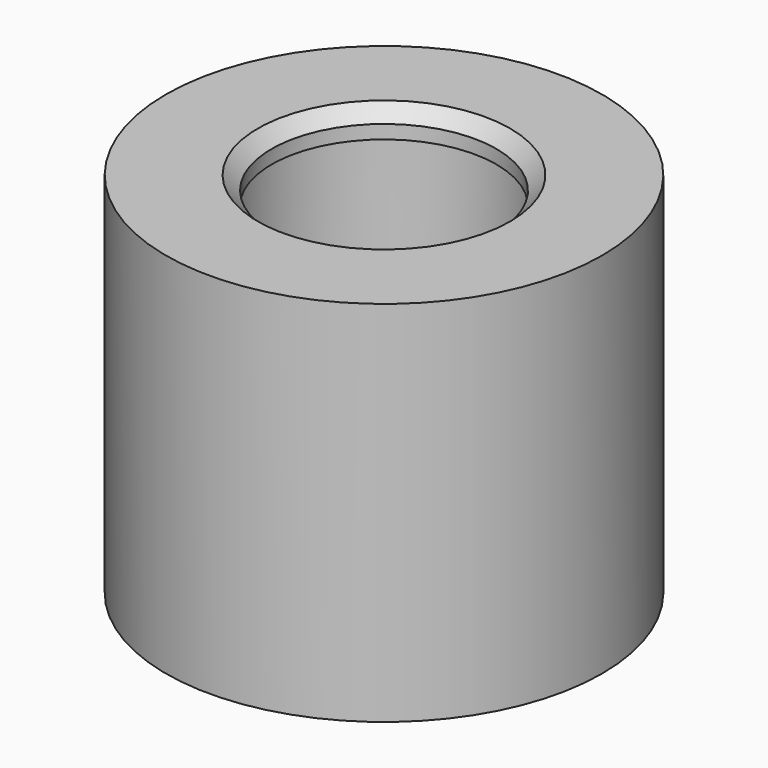
from build123d import *

# Parameters (mm, degrees)
F0_R     = 8
F0_R_2   = 4.125
F1_DEPTH = 13.5
F2_R     = 4.6
F3_DEPTH = 12.5
F4_R     = 6.125
F5_DEPTH = 4.5
F6_SIZE  = 0.5


with BuildPart() as f1:
    # F0 (on Top) → F1 (new body)
    with BuildSketch(Plane.XY):
        Circle(F0_R)
        Circle(F0_R_2, mode=Mode.SUBTRACT)
    extrude(amount=F1_DEPTH)

    # F2 (on Top) → F3 (cut)
    with BuildSketch(Plane.XY):
        Circle(F2_R)
    extrude(amount=F3_DEPTH, mode=Mode.SUBTRACT)

    # F4 (on Top) → F5 (cut)
    with BuildSketch(Plane.XY):
        Circle(F4_R)
    extrude(amount=F5_DEPTH, mode=Mode.SUBTRACT)

    # F6
    f6_edges = [f1.edges().sort_by_distance(p)[0] for p in [
        (-4.125, 0, 13.5),
    ]]
    chamfer(f6_edges, length=F6_SIZE)


solid = f1.part
